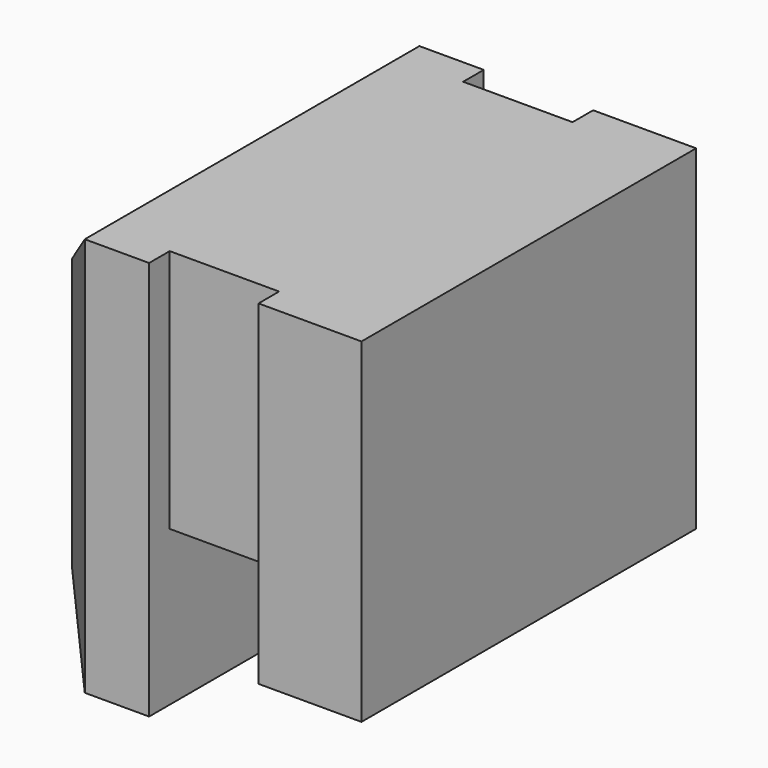
from build123d import *

# Parameters (mm, degrees)
SKETCH126_W  = 5.7
SKETCH126_H  = 3.8
PAD061_DEPTH = 1.7
SKETCH127_W  = 6.5
SKETCH127_H  = 5.205
PAD062_DEPTH = 1.6
SKETCH128_W  = 6.5
SKETCH128_H  = 6.205
PAD063_DEPTH = 2
CHAMFER_SIZE = 1


with BuildPart() as part:
    # Sketch126 → Pad061 (new body)
    with BuildSketch(Plane.YZ):
        with Locations((-7.89, 11.095)):
            Rectangle(SKETCH126_W, SKETCH126_H)
    extrude(amount=PAD061_DEPTH)

    # Sketch127 → Pad062 (join)
    with BuildSketch(Plane.YZ.offset(1.7)):
        with Locations((-7.89, 10.3925)):
            Rectangle(SKETCH127_W, SKETCH127_H)
    extrude(amount=PAD062_DEPTH)

    # Sketch128 → Pad063 (join)
    with BuildSketch(Plane.YZ):
        with Locations((-7.89, 9.8925)):
            Rectangle(SKETCH128_W, SKETCH128_H)
    extrude(amount=-PAD063_DEPTH)

    # Chamfer
    chamfer_edges = [part.edges().sort_by_distance(p)[0] for p in [
        (-2, -7.89, 12.995),
        (-2, -11.14, 9.8925),
        (-2, -7.89, 6.79),
        (-2, -4.64, 9.8925),
    ]]
    chamfer(chamfer_edges, length=CHAMFER_SIZE)


with BuildPart() as part_1:
    # Body017 placement: moved
    add(part.part.moved(Location((-29.5, 0, 0))))


solid = part_1.part
